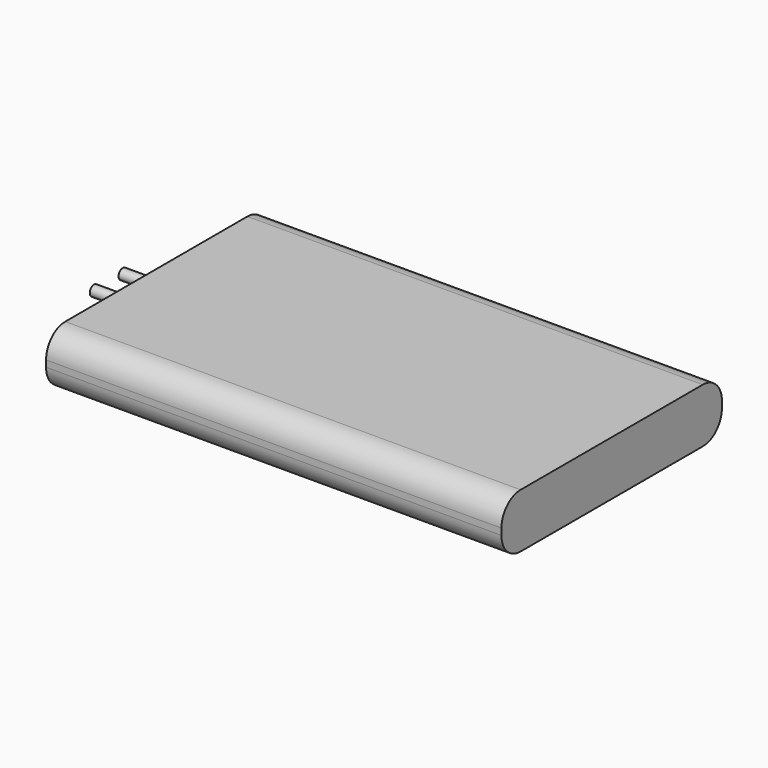
from build123d import *

# Parameters (mm, degrees)
F0_W     = 60.325
F0_H     = 36.5125
F1_DEPTH = 7.2009
F2_R     = 3.175
F3_R     = 0.6985
F4_DEPTH = 6.35


with BuildPart() as f1:
    # F0 (on Top) → F1 (new body)
    with BuildSketch(Plane.XY):
        Rectangle(F0_W, F0_H)
    extrude(amount=F1_DEPTH)

    # F2
    f2_edges = [f1.edges().sort_by_distance(p)[0] for p in [
        (0, -18.25625, 7.2009),
        (0, -18.25625, 0),
        (0, 18.25625, 7.2009),
        (0, 18.25625, 0),
    ]]
    fillet(f2_edges, radius=F2_R)


with BuildPart() as f4:
    # F3 (on face) → F4 (new body)
    with BuildSketch(Plane(origin=(-30.1625, 0, 0), x_dir=(0, -1, 0), z_dir=(-1, 0, 0))):
        with Locations((-2.38125, 3.60045)):
            Circle(F3_R)
    extrude(amount=F4_DEPTH)


with BuildPart() as f5_1:
    # F5: instance of F4
    add(f4.part.mirror(Plane.XZ))


solid = Compound([f1.part, f4.part, f5_1.part])
